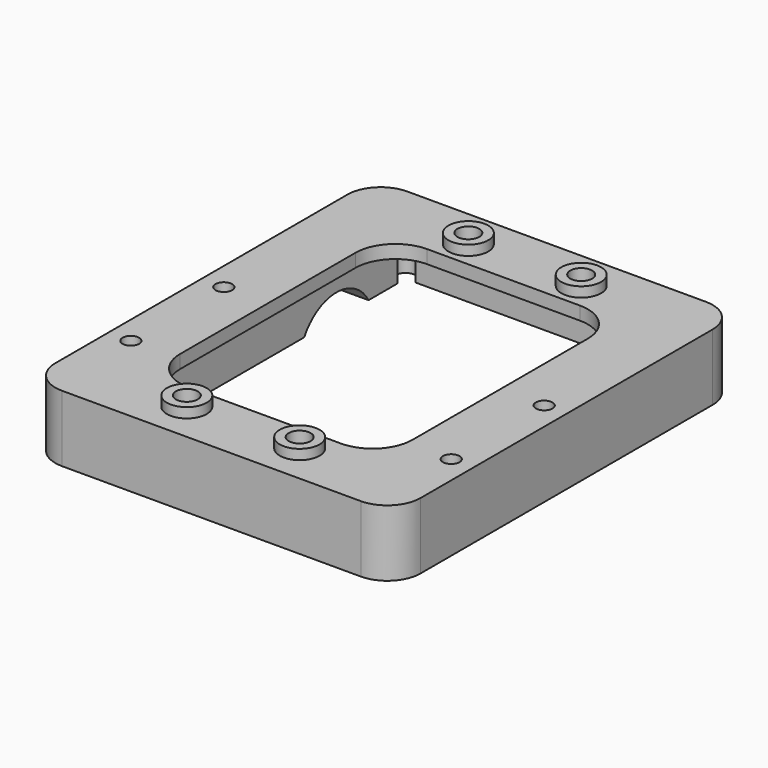
from build123d import *

# Parameters (mm, degrees)
F0_W            = 55
F0_H            = 10
F1_DEPTH        = 32.5
F3_R            = 5
F4_DEPTH        = 12.5
F6_DEPTH        = 30
F7_DEPTH        = 3
F9_D            = 3.3
F9_CSINK_D      = 6.72
F9_CSINK_ANGLE  = 90
F10_R           = 3
F11_DEPTH       = 1.5
F12_D           = 3.3
F12_DEPTH       = 13.5
F12_CSINK_D     = 6.72
F12_CSINK_ANGLE = 90
F12_TIP         = 0.9914200214
F14_D           = 2.5
F14_DEPTH       = 13.5
F14_TIP         = 0.7510757738
F16_DEPTH       = 12


with BuildPart() as f1:
    # F0 (on Front) → F1 (new body, symmetric)
    with BuildSketch(Plane.XZ):
        Rectangle(F0_W, F0_H)
    extrude(amount=F1_DEPTH, both=True)

    # F3
    f3_edges = [f1.edges().sort_by_distance(p)[0] for p in [
        (27.5, -32.5, 0),
        (-27.5, -32.5, 0),
        (-27.5, 32.5, 0),
        (27.5, 32.5, 0),
    ]]
    fillet(f3_edges, radius=F3_R)

    # F2 (on Top) → F4 (cut, symmetric)
    with BuildSketch(Plane.XY):
        with BuildLine():
            Line((-11.5, -22.5), (11.5, -22.5))
            ThreePointArc((11.5, -22.5), (15.7426406871, -20.7426406871), (17.5, -16.5))
            Line((17.5, -16.5), (17.5, 16.5))
            ThreePointArc((17.5, 16.5), (15.7426406871, 20.7426406871), (11.5, 22.5))
            Line((11.5, 22.5), (-11.5, 22.5))
            ThreePointArc((-11.5, 22.5), (-15.7426406871, 20.7426406871), (-17.5, 16.5))
            Line((-17.5, 16.5), (-17.5, -16.5))
            ThreePointArc((-17.5, -16.5), (-15.7426406871, -20.7426406871), (-11.5, -22.5))
        make_face()
    extrude(amount=F4_DEPTH, both=True, mode=Mode.SUBTRACT)

    # F5 (on Top) → F6 (cut)
    with BuildSketch(Plane.XY):
        with BuildLine():
            ThreePointArc((-20.75, -28.5), (-21.8106601718, -31.0606601718), (-19.25, -30))
            Line((-19.25, -30), (-20.75, -30))
            Line((-20.75, -30), (-20.75, -28.5))
        make_face()
        with BuildLine():
            ThreePointArc((-20.75, -28.5), (-19.6893398282, -28.9393398282), (-19.25, -30))
            Line((-19.25, -30), (19.25, -30))
            ThreePointArc((19.25, -30), (19.6893398282, -28.9393398282), (20.75, -28.5))
            Line((20.75, -28.5), (20.75, 28.5))
            ThreePointArc((20.75, 28.5), (19.6893398282, 28.9393398282), (19.25, 30))
            Line((19.25, 30), (-19.25, 30))
            ThreePointArc((-19.25, 30), (-19.6893398282, 28.9393398282), (-20.75, 28.5))
            Line((-20.75, 28.5), (-20.75, -28.5))
        make_face()
        with BuildLine():
            Line((-20.75, -30), (-19.25, -30))
            ThreePointArc((-19.25, -30), (-19.6893398282, -28.9393398282), (-20.75, -28.5))
            Line((-20.75, -28.5), (-20.75, -30))
        make_face()
        with BuildLine():
            ThreePointArc((20.75, -28.5), (19.6893398282, -28.9393398282), (19.25, -30))
            Line((19.25, -30), (20.75, -30))
            Line((20.75, -30), (20.75, -28.5))
        make_face()
        with BuildLine():
            Line((20.75, -30), (19.25, -30))
            ThreePointArc((19.25, -30), (20.75, -31.5), (22.25, -30))
            ThreePointArc((22.25, -30), (21.8106601718, -28.9393398282), (20.75, -28.5))
            Line((20.75, -28.5), (20.75, -30))
        make_face()
        with BuildLine():
            ThreePointArc((-19.25, 30), (-21.8106601718, 31.0606601718), (-20.75, 28.5))
            Line((-20.75, 28.5), (-20.75, 30))
            Line((-20.75, 30), (-19.25, 30))
        make_face()
        with BuildLine():
            Line((-20.75, 30), (-20.75, 28.5))
            ThreePointArc((-20.75, 28.5), (-19.6893398282, 28.9393398282), (-19.25, 30))
            Line((-19.25, 30), (-20.75, 30))
        make_face()
        with BuildLine():
            ThreePointArc((19.25, 30), (19.6893398282, 28.9393398282), (20.75, 28.5))
            Line((20.75, 28.5), (20.75, 30))
            Line((20.75, 30), (19.25, 30))
        make_face()
        with BuildLine():
            Line((20.75, 30), (20.75, 28.5))
            ThreePointArc((20.75, 28.5), (21.8106601718, 28.9393398282), (22.25, 30))
            ThreePointArc((22.25, 30), (20.75, 31.5), (19.25, 30))
            Line((19.25, 30), (20.75, 30))
        make_face()
    extrude(amount=-F6_DEPTH, mode=Mode.SUBTRACT)

    # F5 (on Top) → F7 (cut)
    with BuildSketch(Plane.XY):
        with BuildLine():
            ThreePointArc((-20.75, -28.5), (-21.8106601718, -31.0606601718), (-19.25, -30))
            Line((-19.25, -30), (-20.75, -30))
            Line((-20.75, -30), (-20.75, -28.5))
        make_face()
        with BuildLine():
            ThreePointArc((-20.75, -28.5), (-19.6893398282, -28.9393398282), (-19.25, -30))
            Line((-19.25, -30), (19.25, -30))
            ThreePointArc((19.25, -30), (19.6893398282, -28.9393398282), (20.75, -28.5))
            Line((20.75, -28.5), (20.75, 28.5))
            ThreePointArc((20.75, 28.5), (19.6893398282, 28.9393398282), (19.25, 30))
            Line((19.25, 30), (-19.25, 30))
            ThreePointArc((-19.25, 30), (-19.6893398282, 28.9393398282), (-20.75, 28.5))
            Line((-20.75, 28.5), (-20.75, -28.5))
        make_face()
        with BuildLine():
            Line((-20.75, -30), (-19.25, -30))
            ThreePointArc((-19.25, -30), (-19.6893398282, -28.9393398282), (-20.75, -28.5))
            Line((-20.75, -28.5), (-20.75, -30))
        make_face()
        with BuildLine():
            ThreePointArc((20.75, -28.5), (19.6893398282, -28.9393398282), (19.25, -30))
            Line((19.25, -30), (20.75, -30))
            Line((20.75, -30), (20.75, -28.5))
        make_face()
        with BuildLine():
            Line((20.75, -30), (19.25, -30))
            ThreePointArc((19.25, -30), (20.75, -31.5), (22.25, -30))
            ThreePointArc((22.25, -30), (21.8106601718, -28.9393398282), (20.75, -28.5))
            Line((20.75, -28.5), (20.75, -30))
        make_face()
        with BuildLine():
            ThreePointArc((-19.25, 30), (-21.8106601718, 31.0606601718), (-20.75, 28.5))
            Line((-20.75, 28.5), (-20.75, 30))
            Line((-20.75, 30), (-19.25, 30))
        make_face()
        with BuildLine():
            Line((-20.75, 30), (-20.75, 28.5))
            ThreePointArc((-20.75, 28.5), (-19.6893398282, 28.9393398282), (-19.25, 30))
            Line((-19.25, 30), (-20.75, 30))
        make_face()
        with BuildLine():
            ThreePointArc((19.25, 30), (19.6893398282, 28.9393398282), (20.75, 28.5))
            Line((20.75, 28.5), (20.75, 30))
            Line((20.75, 30), (19.25, 30))
        make_face()
        with BuildLine():
            Line((20.75, 30), (20.75, 28.5))
            ThreePointArc((20.75, 28.5), (21.8106601718, 28.9393398282), (22.25, 30))
            ThreePointArc((22.25, 30), (20.75, 31.5), (19.25, 30))
            Line((19.25, 30), (20.75, 30))
        make_face()
    extrude(amount=F7_DEPTH, mode=Mode.SUBTRACT)

    # F9 (through all)
    with Locations(Plane(origin=(0, 0, 3), x_dir=(1, 0, 0), z_dir=(0, 0, -1))):
        with Locations((-8.5, -26.5042820722), (8.5, -26.5042820722)):
            CounterSinkHole(F9_D / 2, F9_CSINK_D / 2, counter_sink_angle=F9_CSINK_ANGLE)

    # F10 (on face) → F11 (join)
    with BuildSketch(Plane.XY.offset(5)):
        with Locations((8.5, 26.5042820722)):
            Circle(F10_R)
        with Locations((-8.5, 26.5042820722)):
            Circle(F10_R)
        with Locations((-8.5, -26.5)):
            Circle(F10_R)
        with Locations((8.5, -26.5)):
            Circle(F10_R)
    extrude(amount=F11_DEPTH)

    # F12
    with Locations(Plane(origin=(0, 0, 3), x_dir=(1, 0, 0), z_dir=(0, 0, -1))):
        with Locations((-8.5, -26.5042820722), (8.5, -26.5042820722), (8.5, 26.5), (-8.5, 26.5)):
            CounterSinkHole(F12_D / 2, F12_CSINK_D / 2, depth=F12_DEPTH, counter_sink_angle=F12_CSINK_ANGLE)
            with Locations((0, 0, -(F12_DEPTH + F12_TIP / 2))):  # 118° drill point
                Cone(0, F12_D / 2, F12_TIP, mode=Mode.SUBTRACT)

    # F14
    with Locations(Plane(origin=(0, 0, -5), x_dir=(1, 0, 0), z_dir=(0, 0, -1))):
        with Locations((-24.125, 0), (24.125, 0), (-24.125, 17.5), (24.125, 17.5)):
            Hole(F14_D / 2, depth=F14_DEPTH)
            with Locations((0, 0, -(F14_DEPTH + F14_TIP / 2))):  # 118° drill point
                Cone(0, F14_D / 2, F14_TIP, mode=Mode.SUBTRACT)

    # F15 (on face) → F16 (cut)
    with BuildSketch(Plane(origin=(-27.5, 0, 0), x_dir=(0, -1, 0), z_dir=(-1, 0, 0))):
        with BuildLine():
            Line((-23.0304132, -5), (-10.906057547, -5))
            ThreePointArc((-10.906057547, -5), (-16.9682353735, -1.5), (-23.0304132, -5))
        make_face()
    extrude(amount=-F16_DEPTH, mode=Mode.SUBTRACT)


solid = f1.part
